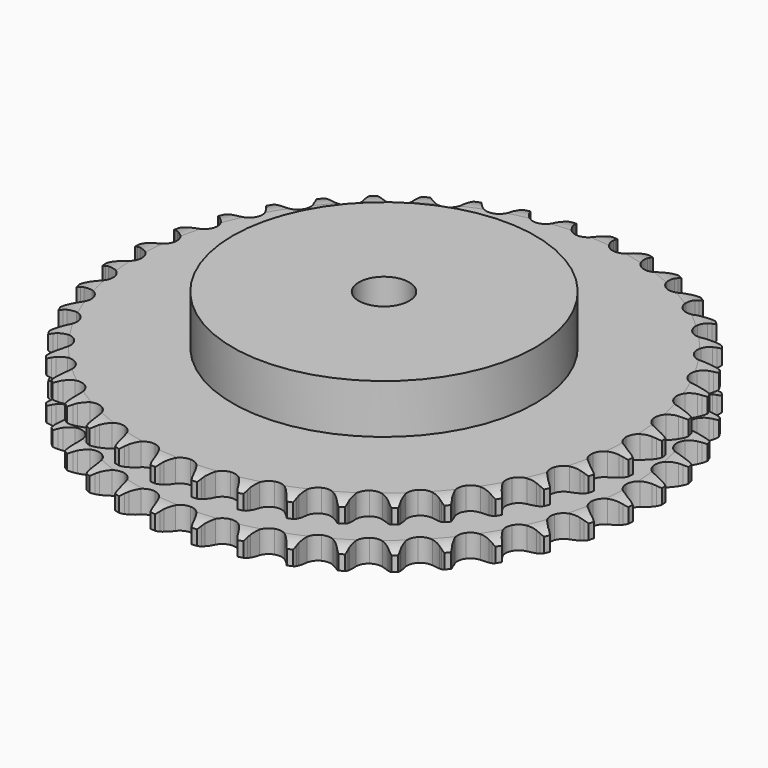
from build123d import *

# Parameters (mm, degrees)
PAD_DEPTH         = 25.5
SKETCH001_R       = 60
PAD001_DEPTH      = 45
SKETCH002_R       = 10
POCKET_DEPTH      = 0.001
POCKET_DEPTH_BACK = 45.001


with BuildPart() as part:
    # Sprocket → Pad (new body)
    with BuildSketch(Plane.XY):
        with BuildLine():
            ThreePointArc((-8.329899, 105.841401), (-7.222908, 104.449857), (-6.440604, 102.85304))
            Line((-6.440604, 102.85304), (-5.945285, 101.484738))
            ThreePointArc((-5.945285, 101.484738), (-5.16247, 99.730627), (-4.134638, 98.107894))
            ThreePointArc((-4.134638, 98.107894), (-2.315081, 96.574328), (0, 96.023865))
            ThreePointArc((0, 96.023865), (2.315081, 96.574328), (4.134638, 98.107894))
            ThreePointArc((4.134638, 98.107894), (5.16247, 99.730627), (5.945285, 101.484738))
            Line((5.945285, 101.484738), (6.440604, 102.85304))
            ThreePointArc((6.440604, 102.85304), (7.222908, 104.449857), (8.329899, 105.841401))
            ThreePointArc((8.329899, 105.841401), (9.205576, 104.293818), (9.728451, 102.594281))
            Line((9.728451, 102.594281), (10.003622, 101.16534))
            ThreePointArc((10.003622, 101.16534), (10.502396, 99.310366), (11.263722, 97.546823))
            ThreePointArc((11.263722, 97.546823), (12.820975, 95.747496), (15.021442, 94.841652))
            ThreePointArc((15.021442, 94.841652), (17.394132, 95.023179), (19.431189, 96.253223))
            Line((19.431189, 96.253223), (21.7478, 99.305245))
            ThreePointArc((21.7478, 99.305245), (22.081961, 99.951877), (22.45107, 100.579216))
            ThreePointArc((22.45107, 100.579216), (23.473539, 102.033995), (24.784587, 103.235234))
            ThreePointArc((24.784587, 103.235234), (25.407388, 101.569719), (25.657959, 99.80931))
            Line((25.657959, 99.80931), (25.706206, 98.354915))
            ThreePointArc((25.706206, 98.354915), (25.908658, 96.444754), (26.384732, 94.583826))
            ThreePointArc((26.384732, 94.583826), (27.641335, 92.563044), (29.673006, 91.324123))
            ThreePointArc((29.673006, 91.324123), (32.044882, 91.132245), (34.249281, 92.028479))
            Line((34.249281, 92.028479), (37.014811, 94.680527))
            ThreePointArc((37.014811, 94.680527), (37.446013, 95.266924), (37.908716, 95.828798))
            ThreePointArc((37.908716, 95.828798), (39.146174, 97.105716), (40.628996, 98.087074))
            ThreePointArc((40.628996, 98.087074), (40.983585, 96.344636), (40.955683, 94.566703))
            Line((40.955683, 94.566703), (40.775819, 93.122666))
            ThreePointArc((40.775819, 93.122666), (40.676963, 91.204352), (40.856063, 89.29186))
            ThreePointArc((40.856063, 89.29186), (41.781075, 87.099381), (43.593923, 85.55789))
            ThreePointArc((43.593923, 85.55789), (45.90658, 84.997331), (48.224041, 85.537688))
            Line((48.224041, 85.537688), (51.370395, 87.72446))
            ThreePointArc((51.370395, 87.72446), (51.888021, 88.236183), (52.432923, 88.718757))
            ThreePointArc((52.432923, 88.718757), (53.854901, 89.786373), (55.472985, 90.523684))
            ThreePointArc((55.472985, 90.523684), (55.550631, 88.747228), (55.244942, 86.99555))
            Line((55.244942, 86.99555), (54.841395, 85.597429))
            ThreePointArc((54.841395, 85.597429), (54.443666, 83.718196), (54.321381, 81.801233))
            ThreePointArc((54.321381, 81.801233), (54.892026, 79.491043), (56.441412, 77.684939))
            ThreePointArc((56.441412, 77.684939), (58.637906, 76.769502), (61.011366, 76.940675))
            Line((61.011366, 76.940675), (64.461069, 78.608326))
            ThreePointArc((64.461069, 78.608326), (65.052373, 79.032774), (65.666058, 79.424166))
            ThreePointArc((65.666058, 79.424166), (67.237541, 80.256191), (68.951044, 80.7313))
            ThreePointArc((68.951044, 80.7313), (68.749835, 78.964569), (68.173888, 77.282277))
            Line((68.173888, 77.282277), (67.556595, 75.964498))
            ThreePointArc((67.556595, 75.964498), (66.869785, 74.170621), (66.449127, 72.296388))
            ThreePointArc((66.449127, 72.296388), (66.651353, 69.925372), (67.899126, 67.899126))
            ThreePointArc((67.899126, 67.899126), (69.925372, 66.651353), (72.296388, 66.449127))
            Line((72.296388, 66.449127), (75.964498, 67.556595))
            ThreePointArc((75.964498, 67.556595), (76.61492, 67.883316), (77.282277, 68.173888))
            ThreePointArc((77.282277, 68.173888), (78.964569, 68.749835), (80.7313, 68.951044))
            ThreePointArc((80.7313, 68.951044), (80.256191, 67.237541), (79.424166, 65.666058))
            Line((79.424166, 65.666058), (78.608326, 64.461069))
            ThreePointArc((78.608326, 64.461069), (77.649349, 62.796718), (76.940675, 61.011366))
            ThreePointArc((76.940675, 61.011366), (76.769502, 58.637906), (77.684939, 56.441412))
            ThreePointArc((77.684939, 56.441412), (79.491043, 54.892026), (81.801233, 54.321381))
            Line((81.801233, 54.321381), (85.597429, 54.841395))
            ThreePointArc((85.597429, 54.841395), (86.290954, 55.062346), (86.99555, 55.244942))
            ThreePointArc((86.99555, 55.244942), (88.747228, 55.550631), (90.523684, 55.472985))
            ThreePointArc((90.523684, 55.472985), (89.786373, 53.854901), (88.718757, 52.432923))
            Line((88.718757, 52.432923), (87.72446, 51.370395))
            ThreePointArc((87.72446, 51.370395), (86.516927, 49.876552), (85.537688, 48.224041))
            ThreePointArc((85.537688, 48.224041), (84.997331, 45.90658), (85.55789, 43.593923))
            ThreePointArc((85.55789, 43.593923), (87.099381, 41.781075), (89.29186, 40.856063))
            Line((89.29186, 40.856063), (93.122666, 40.775819))
            ThreePointArc((93.122666, 40.775819), (93.842218, 40.885558), (94.566703, 40.955683))
            ThreePointArc((94.566703, 40.955683), (96.344636, 40.983585), (98.087074, 40.628996))
            ThreePointArc((98.087074, 40.628996), (97.105716, 39.146174), (95.828798, 37.908716))
            Line((95.828798, 37.908716), (94.680527, 37.014811))
            ThreePointArc((94.680527, 37.014811), (93.254172, 35.72826), (92.028479, 34.249281))
            ThreePointArc((92.028479, 34.249281), (91.132245, 32.044882), (91.324123, 29.673006))
            ThreePointArc((91.324123, 29.673006), (92.563044, 27.641335), (94.583826, 26.384732))
            Line((94.583826, 26.384732), (98.354915, 25.706206))
            ThreePointArc((98.354915, 25.706206), (99.082775, 25.702032), (99.80931, 25.657959))
            ThreePointArc((99.80931, 25.657959), (101.569719, 25.407388), (103.235234, 24.784587))
            ThreePointArc((103.235234, 24.784587), (102.033995, 23.473539), (100.579216, 22.45107))
            Line((100.579216, 22.45107), (99.305245, 21.7478))
            ThreePointArc((99.305245, 21.7478), (97.69519, 20.700219), (96.253223, 19.431189))
            ThreePointArc((96.253223, 19.431189), (95.023179, 17.394132), (94.841652, 15.021442))
            ThreePointArc((94.841652, 15.021442), (95.747496, 12.820975), (97.546823, 11.263722))
            Line((97.546823, 11.263722), (101.16534, 10.003622))
            ThreePointArc((101.16534, 10.003622), (101.883585, 9.885636), (102.594281, 9.728451))
            ThreePointArc((102.594281, 9.728451), (104.293818, 9.205576), (105.841401, 8.329899))
            ThreePointArc((105.841401, 8.329899), (104.449857, 7.222908), (102.85304, 6.440604))
            Line((102.85304, 6.440604), (101.484738, 5.945285))
            ThreePointArc((101.484738, 5.945285), (99.730627, 5.16247), (98.107894, 4.134638))
            ThreePointArc((98.107894, 4.134638), (96.574328, 2.315081), (96.023865, 0))
            ThreePointArc((96.023865, 0), (96.574328, -2.315081), (98.107894, -4.134638))
            Line((98.107894, -4.134638), (101.484738, -5.945285))
            ThreePointArc((101.484738, -5.945285), (102.175683, -6.174177), (102.85304, -6.440604))
            ThreePointArc((102.85304, -6.440604), (104.449857, -7.222908), (105.841401, -8.329899))
            ThreePointArc((105.841401, -8.329899), (104.293818, -9.205576), (102.594281, -9.728451))
            Line((102.594281, -9.728451), (101.16534, -10.003622))
            ThreePointArc((101.16534, -10.003622), (99.310366, -10.502396), (97.546823, -11.263722))
            ThreePointArc((97.546823, -11.263722), (95.747496, -12.820975), (94.841652, -15.021442))
            ThreePointArc((94.841652, -15.021442), (95.023179, -17.394132), (96.253223, -19.431189))
            Line((96.253223, -19.431189), (99.305245, -21.7478))
            ThreePointArc((99.305245, -21.7478), (99.951877, -22.081961), (100.579216, -22.45107))
            ThreePointArc((100.579216, -22.45107), (102.033995, -23.473539), (103.235234, -24.784587))
            ThreePointArc((103.235234, -24.784587), (101.569719, -25.407388), (99.80931, -25.657959))
            Line((99.80931, -25.657959), (98.354915, -25.706206))
            ThreePointArc((98.354915, -25.706206), (96.444754, -25.908658), (94.583826, -26.384732))
            ThreePointArc((94.583826, -26.384732), (92.563044, -27.641335), (91.324123, -29.673006))
            ThreePointArc((91.324123, -29.673006), (91.132245, -32.044882), (92.028479, -34.249281))
            Line((92.028479, -34.249281), (94.680527, -37.014811))
            ThreePointArc((94.680527, -37.014811), (95.266924, -37.446013), (95.828798, -37.908716))
            ThreePointArc((95.828798, -37.908716), (97.105716, -39.146174), (98.087074, -40.628996))
            ThreePointArc((98.087074, -40.628996), (96.344636, -40.983585), (94.566703, -40.955683))
            Line((94.566703, -40.955683), (93.122666, -40.775819))
            ThreePointArc((93.122666, -40.775819), (91.204352, -40.676963), (89.29186, -40.856063))
            ThreePointArc((89.29186, -40.856063), (87.099381, -41.781075), (85.55789, -43.593923))
            ThreePointArc((85.55789, -43.593923), (84.997331, -45.90658), (85.537688, -48.224041))
            Line((85.537688, -48.224041), (87.72446, -51.370395))
            ThreePointArc((87.72446, -51.370395), (88.236183, -51.888021), (88.718757, -52.432923))
            ThreePointArc((88.718757, -52.432923), (89.786373, -53.854901), (90.523684, -55.472985))
            ThreePointArc((90.523684, -55.472985), (88.747228, -55.550631), (86.99555, -55.244942))
            Line((86.99555, -55.244942), (85.597429, -54.841395))
            ThreePointArc((85.597429, -54.841395), (83.718196, -54.443666), (81.801233, -54.321381))
            ThreePointArc((81.801233, -54.321381), (79.491043, -54.892026), (77.684939, -56.441412))
            ThreePointArc((77.684939, -56.441412), (76.769502, -58.637906), (76.940675, -61.011366))
            Line((76.940675, -61.011366), (78.608326, -64.461069))
            ThreePointArc((78.608326, -64.461069), (79.032774, -65.052373), (79.424166, -65.666058))
            ThreePointArc((79.424166, -65.666058), (80.256191, -67.237541), (80.7313, -68.951044))
            ThreePointArc((80.7313, -68.951044), (78.964569, -68.749835), (77.282277, -68.173888))
            Line((77.282277, -68.173888), (75.964498, -67.556595))
            ThreePointArc((75.964498, -67.556595), (74.170621, -66.869785), (72.296388, -66.449127))
            ThreePointArc((72.296388, -66.449127), (69.925372, -66.651353), (67.899126, -67.899126))
            ThreePointArc((67.899126, -67.899126), (66.651353, -69.925372), (66.449127, -72.296388))
            Line((66.449127, -72.296388), (67.556595, -75.964498))
            ThreePointArc((67.556595, -75.964498), (67.883316, -76.61492), (68.173888, -77.282277))
            ThreePointArc((68.173888, -77.282277), (68.749835, -78.964569), (68.951044, -80.7313))
            ThreePointArc((68.951044, -80.7313), (67.237541, -80.256191), (65.666058, -79.424166))
            Line((65.666058, -79.424166), (64.461069, -78.608326))
            ThreePointArc((64.461069, -78.608326), (62.796718, -77.649349), (61.011366, -76.940675))
            ThreePointArc((61.011366, -76.940675), (58.637906, -76.769502), (56.441412, -77.684939))
            ThreePointArc((56.441412, -77.684939), (54.892026, -79.491043), (54.321381, -81.801233))
            Line((54.321381, -81.801233), (54.841395, -85.597429))
            ThreePointArc((54.841395, -85.597429), (55.062346, -86.290954), (55.244942, -86.99555))
            ThreePointArc((55.244942, -86.99555), (55.550631, -88.747228), (55.472985, -90.523684))
            ThreePointArc((55.472985, -90.523684), (53.854901, -89.786373), (52.432923, -88.718757))
            Line((52.432923, -88.718757), (51.370395, -87.72446))
            ThreePointArc((51.370395, -87.72446), (49.876552, -86.516927), (48.224041, -85.537688))
            ThreePointArc((48.224041, -85.537688), (45.90658, -84.997331), (43.593923, -85.55789))
            ThreePointArc((43.593923, -85.55789), (41.781075, -87.099381), (40.856063, -89.29186))
            Line((40.856063, -89.29186), (40.775819, -93.122666))
            ThreePointArc((40.775819, -93.122666), (40.885558, -93.842218), (40.955683, -94.566703))
            ThreePointArc((40.955683, -94.566703), (40.983585, -96.344636), (40.628996, -98.087074))
            ThreePointArc((40.628996, -98.087074), (39.146174, -97.105716), (37.908716, -95.828798))
            Line((37.908716, -95.828798), (37.014811, -94.680527))
            ThreePointArc((37.014811, -94.680527), (35.72826, -93.254172), (34.249281, -92.028479))
            ThreePointArc((34.249281, -92.028479), (32.044882, -91.132245), (29.673006, -91.324123))
            ThreePointArc((29.673006, -91.324123), (27.641335, -92.563044), (26.384732, -94.583826))
            Line((26.384732, -94.583826), (25.706206, -98.354915))
            ThreePointArc((25.706206, -98.354915), (25.702032, -99.082775), (25.657959, -99.80931))
            ThreePointArc((25.657959, -99.80931), (25.407388, -101.569719), (24.784587, -103.235234))
            ThreePointArc((24.784587, -103.235234), (23.473539, -102.033995), (22.45107, -100.579216))
            Line((22.45107, -100.579216), (21.7478, -99.305245))
            ThreePointArc((21.7478, -99.305245), (20.700219, -97.69519), (19.431189, -96.253223))
            ThreePointArc((19.431189, -96.253223), (17.394132, -95.023179), (15.021442, -94.841652))
            ThreePointArc((15.021442, -94.841652), (12.820975, -95.747496), (11.263722, -97.546823))
            Line((11.263722, -97.546823), (10.003622, -101.16534))
            ThreePointArc((10.003622, -101.16534), (9.885636, -101.883585), (9.728451, -102.594281))
            ThreePointArc((9.728451, -102.594281), (9.205576, -104.293818), (8.329899, -105.841401))
            ThreePointArc((8.329899, -105.841401), (7.222908, -104.449857), (6.440604, -102.85304))
            Line((6.440604, -102.85304), (5.945285, -101.484738))
            ThreePointArc((5.945285, -101.484738), (5.16247, -99.730627), (4.134638, -98.107894))
            ThreePointArc((4.134638, -98.107894), (2.315081, -96.574328), (0, -96.023865))
            ThreePointArc((0, -96.023865), (-2.315081, -96.574328), (-4.134638, -98.107894))
            Line((-4.134638, -98.107894), (-5.945285, -101.484738))
            ThreePointArc((-5.945285, -101.484738), (-6.174177, -102.175683), (-6.440604, -102.85304))
            ThreePointArc((-6.440604, -102.85304), (-7.222908, -104.449857), (-8.329899, -105.841401))
            ThreePointArc((-8.329899, -105.841401), (-9.205576, -104.293818), (-9.728451, -102.594281))
            Line((-9.728451, -102.594281), (-10.003622, -101.16534))
            ThreePointArc((-10.003622, -101.16534), (-10.502396, -99.310366), (-11.263722, -97.546823))
            ThreePointArc((-11.263722, -97.546823), (-12.820975, -95.747496), (-15.021442, -94.841652))
            ThreePointArc((-15.021442, -94.841652), (-17.394132, -95.023179), (-19.431189, -96.253223))
            Line((-19.431189, -96.253223), (-21.7478, -99.305245))
            ThreePointArc((-21.7478, -99.305245), (-22.081961, -99.951877), (-22.45107, -100.579216))
            ThreePointArc((-22.45107, -100.579216), (-23.473539, -102.033995), (-24.784587, -103.235234))
            ThreePointArc((-24.784587, -103.235234), (-25.407388, -101.569719), (-25.657959, -99.80931))
            Line((-25.657959, -99.80931), (-25.706206, -98.354915))
            ThreePointArc((-25.706206, -98.354915), (-25.908658, -96.444754), (-26.384732, -94.583826))
            ThreePointArc((-26.384732, -94.583826), (-27.641335, -92.563044), (-29.673006, -91.324123))
            ThreePointArc((-29.673006, -91.324123), (-32.044882, -91.132245), (-34.249281, -92.028479))
            Line((-34.249281, -92.028479), (-37.014811, -94.680527))
            ThreePointArc((-37.014811, -94.680527), (-37.446013, -95.266924), (-37.908716, -95.828798))
            ThreePointArc((-37.908716, -95.828798), (-39.146174, -97.105716), (-40.628996, -98.087074))
            ThreePointArc((-40.628996, -98.087074), (-40.983585, -96.344636), (-40.955683, -94.566703))
            Line((-40.955683, -94.566703), (-40.775819, -93.122666))
            ThreePointArc((-40.775819, -93.122666), (-40.676963, -91.204352), (-40.856063, -89.29186))
            ThreePointArc((-40.856063, -89.29186), (-41.781075, -87.099381), (-43.593923, -85.55789))
            ThreePointArc((-43.593923, -85.55789), (-45.90658, -84.997331), (-48.224041, -85.537688))
            Line((-48.224041, -85.537688), (-51.370395, -87.72446))
            ThreePointArc((-51.370395, -87.72446), (-51.888021, -88.236183), (-52.432923, -88.718757))
            ThreePointArc((-52.432923, -88.718757), (-53.854901, -89.786373), (-55.472985, -90.523684))
            ThreePointArc((-55.472985, -90.523684), (-55.550631, -88.747228), (-55.244942, -86.99555))
            Line((-55.244942, -86.99555), (-54.841395, -85.597429))
            ThreePointArc((-54.841395, -85.597429), (-54.443666, -83.718196), (-54.321381, -81.801233))
            ThreePointArc((-54.321381, -81.801233), (-54.892026, -79.491043), (-56.441412, -77.684939))
            ThreePointArc((-56.441412, -77.684939), (-58.637906, -76.769502), (-61.011366, -76.940675))
            Line((-61.011366, -76.940675), (-64.461069, -78.608326))
            ThreePointArc((-64.461069, -78.608326), (-65.052373, -79.032774), (-65.666058, -79.424166))
            ThreePointArc((-65.666058, -79.424166), (-67.237541, -80.256191), (-68.951044, -80.7313))
            ThreePointArc((-68.951044, -80.7313), (-68.749835, -78.964569), (-68.173888, -77.282277))
            Line((-68.173888, -77.282277), (-67.556595, -75.964498))
            ThreePointArc((-67.556595, -75.964498), (-66.869785, -74.170621), (-66.449127, -72.296388))
            ThreePointArc((-66.449127, -72.296388), (-66.651353, -69.925372), (-67.899126, -67.899126))
            ThreePointArc((-67.899126, -67.899126), (-69.925372, -66.651353), (-72.296388, -66.449127))
            Line((-72.296388, -66.449127), (-75.964498, -67.556595))
            ThreePointArc((-75.964498, -67.556595), (-76.61492, -67.883316), (-77.282277, -68.173888))
            ThreePointArc((-77.282277, -68.173888), (-78.964569, -68.749835), (-80.7313, -68.951044))
            ThreePointArc((-80.7313, -68.951044), (-80.256191, -67.237541), (-79.424166, -65.666058))
            Line((-79.424166, -65.666058), (-78.608326, -64.461069))
            ThreePointArc((-78.608326, -64.461069), (-77.649349, -62.796718), (-76.940675, -61.011366))
            ThreePointArc((-76.940675, -61.011366), (-76.769502, -58.637906), (-77.684939, -56.441412))
            ThreePointArc((-77.684939, -56.441412), (-79.491043, -54.892026), (-81.801233, -54.321381))
            Line((-81.801233, -54.321381), (-85.597429, -54.841395))
            ThreePointArc((-85.597429, -54.841395), (-86.290954, -55.062346), (-86.99555, -55.244942))
            ThreePointArc((-86.99555, -55.244942), (-88.747228, -55.550631), (-90.523684, -55.472985))
            ThreePointArc((-90.523684, -55.472985), (-89.786373, -53.854901), (-88.718757, -52.432923))
            Line((-88.718757, -52.432923), (-87.72446, -51.370395))
            ThreePointArc((-87.72446, -51.370395), (-86.516927, -49.876552), (-85.537688, -48.224041))
            ThreePointArc((-85.537688, -48.224041), (-84.997331, -45.90658), (-85.55789, -43.593923))
            ThreePointArc((-85.55789, -43.593923), (-87.099381, -41.781075), (-89.29186, -40.856063))
            Line((-89.29186, -40.856063), (-93.122666, -40.775819))
            ThreePointArc((-93.122666, -40.775819), (-93.842218, -40.885558), (-94.566703, -40.955683))
            ThreePointArc((-94.566703, -40.955683), (-96.344636, -40.983585), (-98.087074, -40.628996))
            ThreePointArc((-98.087074, -40.628996), (-97.105716, -39.146174), (-95.828798, -37.908716))
            Line((-95.828798, -37.908716), (-94.680527, -37.014811))
            ThreePointArc((-94.680527, -37.014811), (-93.254172, -35.72826), (-92.028479, -34.249281))
            ThreePointArc((-92.028479, -34.249281), (-91.132245, -32.044882), (-91.324123, -29.673006))
            ThreePointArc((-91.324123, -29.673006), (-92.563044, -27.641335), (-94.583826, -26.384732))
            Line((-94.583826, -26.384732), (-98.354915, -25.706206))
            ThreePointArc((-98.354915, -25.706206), (-99.082775, -25.702032), (-99.80931, -25.657959))
            ThreePointArc((-99.80931, -25.657959), (-101.569719, -25.407388), (-103.235234, -24.784587))
            ThreePointArc((-103.235234, -24.784587), (-102.033995, -23.473539), (-100.579216, -22.45107))
            Line((-100.579216, -22.45107), (-99.305245, -21.7478))
            ThreePointArc((-99.305245, -21.7478), (-97.69519, -20.700219), (-96.253223, -19.431189))
            ThreePointArc((-96.253223, -19.431189), (-95.023179, -17.394132), (-94.841652, -15.021442))
            ThreePointArc((-94.841652, -15.021442), (-95.747496, -12.820975), (-97.546823, -11.263722))
            Line((-97.546823, -11.263722), (-101.16534, -10.003622))
            ThreePointArc((-101.16534, -10.003622), (-101.883585, -9.885636), (-102.594281, -9.728451))
            ThreePointArc((-102.594281, -9.728451), (-104.293818, -9.205576), (-105.841401, -8.329899))
            ThreePointArc((-105.841401, -8.329899), (-104.449857, -7.222908), (-102.85304, -6.440604))
            Line((-102.85304, -6.440604), (-101.484738, -5.945285))
            ThreePointArc((-101.484738, -5.945285), (-99.730627, -5.16247), (-98.107894, -4.134638))
            ThreePointArc((-98.107894, -4.134638), (-96.574328, -2.315081), (-96.023865, 0))
            ThreePointArc((-96.023865, 0), (-96.574328, 2.315081), (-98.107894, 4.134638))
            Line((-98.107894, 4.134638), (-101.484738, 5.945285))
            ThreePointArc((-101.484738, 5.945285), (-102.175683, 6.174177), (-102.85304, 6.440604))
            ThreePointArc((-102.85304, 6.440604), (-104.449857, 7.222908), (-105.841401, 8.329899))
            ThreePointArc((-105.841401, 8.329899), (-104.293818, 9.205576), (-102.594281, 9.728451))
            Line((-102.594281, 9.728451), (-101.16534, 10.003622))
            ThreePointArc((-101.16534, 10.003622), (-99.310366, 10.502396), (-97.546823, 11.263722))
            ThreePointArc((-97.546823, 11.263722), (-95.747496, 12.820975), (-94.841652, 15.021442))
            ThreePointArc((-94.841652, 15.021442), (-95.023179, 17.394132), (-96.253223, 19.431189))
            Line((-96.253223, 19.431189), (-99.305245, 21.7478))
            ThreePointArc((-99.305245, 21.7478), (-99.951877, 22.081961), (-100.579216, 22.45107))
            ThreePointArc((-100.579216, 22.45107), (-102.033995, 23.473539), (-103.235234, 24.784587))
            ThreePointArc((-103.235234, 24.784587), (-101.569719, 25.407388), (-99.80931, 25.657959))
            Line((-99.80931, 25.657959), (-98.354915, 25.706206))
            ThreePointArc((-98.354915, 25.706206), (-96.444754, 25.908658), (-94.583826, 26.384732))
            ThreePointArc((-94.583826, 26.384732), (-92.563044, 27.641335), (-91.324123, 29.673006))
            ThreePointArc((-91.324123, 29.673006), (-91.132245, 32.044882), (-92.028479, 34.249281))
            Line((-92.028479, 34.249281), (-94.680527, 37.014811))
            ThreePointArc((-94.680527, 37.014811), (-95.266924, 37.446013), (-95.828798, 37.908716))
            ThreePointArc((-95.828798, 37.908716), (-97.105716, 39.146174), (-98.087074, 40.628996))
            ThreePointArc((-98.087074, 40.628996), (-96.344636, 40.983585), (-94.566703, 40.955683))
            Line((-94.566703, 40.955683), (-93.122666, 40.775819))
            ThreePointArc((-93.122666, 40.775819), (-91.204352, 40.676963), (-89.29186, 40.856063))
            ThreePointArc((-89.29186, 40.856063), (-87.099381, 41.781075), (-85.55789, 43.593923))
            ThreePointArc((-85.55789, 43.593923), (-84.997331, 45.90658), (-85.537688, 48.224041))
            Line((-85.537688, 48.224041), (-87.72446, 51.370395))
            ThreePointArc((-87.72446, 51.370395), (-88.236183, 51.888021), (-88.718757, 52.432923))
            ThreePointArc((-88.718757, 52.432923), (-89.786373, 53.854901), (-90.523684, 55.472985))
            ThreePointArc((-90.523684, 55.472985), (-88.747228, 55.550631), (-86.99555, 55.244942))
            Line((-86.99555, 55.244942), (-85.597429, 54.841395))
            ThreePointArc((-85.597429, 54.841395), (-83.718196, 54.443666), (-81.801233, 54.321381))
            ThreePointArc((-81.801233, 54.321381), (-79.491043, 54.892026), (-77.684939, 56.441412))
            ThreePointArc((-77.684939, 56.441412), (-76.769502, 58.637906), (-76.940675, 61.011366))
            Line((-76.940675, 61.011366), (-78.608326, 64.461069))
            ThreePointArc((-78.608326, 64.461069), (-79.032774, 65.052373), (-79.424166, 65.666058))
            ThreePointArc((-79.424166, 65.666058), (-80.256191, 67.237541), (-80.7313, 68.951044))
            ThreePointArc((-80.7313, 68.951044), (-78.964569, 68.749835), (-77.282277, 68.173888))
            Line((-77.282277, 68.173888), (-75.964498, 67.556595))
            ThreePointArc((-75.964498, 67.556595), (-74.170621, 66.869785), (-72.296388, 66.449127))
            ThreePointArc((-72.296388, 66.449127), (-69.925372, 66.651353), (-67.899126, 67.899126))
            ThreePointArc((-67.899126, 67.899126), (-66.651353, 69.925372), (-66.449127, 72.296388))
            Line((-66.449127, 72.296388), (-67.556595, 75.964498))
            ThreePointArc((-67.556595, 75.964498), (-67.883316, 76.61492), (-68.173888, 77.282277))
            ThreePointArc((-68.173888, 77.282277), (-68.749835, 78.964569), (-68.951044, 80.7313))
            ThreePointArc((-68.951044, 80.7313), (-67.237541, 80.256191), (-65.666058, 79.424166))
            Line((-65.666058, 79.424166), (-64.461069, 78.608326))
            ThreePointArc((-64.461069, 78.608326), (-62.796718, 77.649349), (-61.011366, 76.940675))
            ThreePointArc((-61.011366, 76.940675), (-58.637906, 76.769502), (-56.441412, 77.684939))
            ThreePointArc((-56.441412, 77.684939), (-54.892026, 79.491043), (-54.321381, 81.801233))
            Line((-54.321381, 81.801233), (-54.841395, 85.597429))
            ThreePointArc((-54.841395, 85.597429), (-55.062346, 86.290954), (-55.244942, 86.99555))
            ThreePointArc((-55.244942, 86.99555), (-55.550631, 88.747228), (-55.472985, 90.523684))
            ThreePointArc((-55.472985, 90.523684), (-53.854901, 89.786373), (-52.432923, 88.718757))
            Line((-52.432923, 88.718757), (-51.370395, 87.72446))
            ThreePointArc((-51.370395, 87.72446), (-49.876552, 86.516927), (-48.224041, 85.537688))
            ThreePointArc((-48.224041, 85.537688), (-45.90658, 84.997331), (-43.593923, 85.55789))
            ThreePointArc((-43.593923, 85.55789), (-41.781075, 87.099381), (-40.856063, 89.29186))
            Line((-40.856063, 89.29186), (-40.775819, 93.122666))
            ThreePointArc((-40.775819, 93.122666), (-40.885558, 93.842218), (-40.955683, 94.566703))
            ThreePointArc((-40.955683, 94.566703), (-40.983585, 96.344636), (-40.628996, 98.087074))
            ThreePointArc((-40.628996, 98.087074), (-39.146174, 97.105716), (-37.908716, 95.828798))
            Line((-37.908716, 95.828798), (-37.014811, 94.680527))
            ThreePointArc((-37.014811, 94.680527), (-35.72826, 93.254172), (-34.249281, 92.028479))
            ThreePointArc((-34.249281, 92.028479), (-32.044882, 91.132245), (-29.673006, 91.324123))
            ThreePointArc((-29.673006, 91.324123), (-27.641335, 92.563044), (-26.384732, 94.583826))
            Line((-26.384732, 94.583826), (-25.706206, 98.354915))
            ThreePointArc((-25.706206, 98.354915), (-25.702032, 99.082775), (-25.657959, 99.80931))
            ThreePointArc((-25.657959, 99.80931), (-25.407388, 101.569719), (-24.784587, 103.235234))
            ThreePointArc((-24.784587, 103.235234), (-23.473539, 102.033995), (-22.45107, 100.579216))
            Line((-22.45107, 100.579216), (-21.7478, 99.305245))
            ThreePointArc((-21.7478, 99.305245), (-20.700219, 97.69519), (-19.431189, 96.253223))
            ThreePointArc((-19.431189, 96.253223), (-17.394132, 95.023179), (-15.021442, 94.841652))
            ThreePointArc((-15.021442, 94.841652), (-12.820975, 95.747496), (-11.263722, 97.546823))
            Line((-11.263722, 97.546823), (-10.003622, 101.16534))
            ThreePointArc((-10.003622, 101.16534), (-9.885636, 101.883585), (-9.728451, 102.594281))
            ThreePointArc((-9.728451, 102.594281), (-9.205576, 104.293818), (-8.329899, 105.841401))
        make_face()
    extrude(amount=PAD_DEPTH)

    # Sketch → Groove (revolve, cut)
    with BuildSketch(Plane.XZ):
        with BuildLine():
            ThreePointArc((97.675762, 0), (101.25347, 0.405129), (104.65, 1.6))
            Line((104.65, 1.6), (104.65, 7.4))
            ThreePointArc((104.65, 7.4), (101.25347, 8.594871), (97.675762, 9))
            Line((60, 9), (97.675762, 9))
            Line((60, 16.5), (60, 9))
            Line((97.675762, 16.5), (60, 16.5))
            ThreePointArc((97.675762, 16.5), (101.25347, 16.905129), (104.65, 18.1))
            Line((104.65, 18.1), (104.65, 23.9))
            ThreePointArc((104.65, 23.9), (101.25347, 25.094871), (97.675762, 25.5))
            Line((97.675762, 25.5), (107.675762, 25.5))
            Line((107.675762, 25.5), (107.675762, 0))
            Line((97.675762, 0), (107.675762, 0))
        make_face()
    revolve(axis=Axis((0, 0, 0), (0, 0, 1)), mode=Mode.SUBTRACT)

    # Sketch001 → Pad001 (join)
    with BuildSketch(Plane.XY):
        Circle(SKETCH001_R)
    extrude(amount=PAD001_DEPTH)

    # Sketch002 → Pocket (cut, two sides)
    with BuildSketch(Plane.XY) as pocket_sk:
        Circle(SKETCH002_R)
    extrude(amount=-POCKET_DEPTH, mode=Mode.SUBTRACT)
    extrude(pocket_sk.sketch, amount=POCKET_DEPTH_BACK, mode=Mode.SUBTRACT)


solid = part.part
